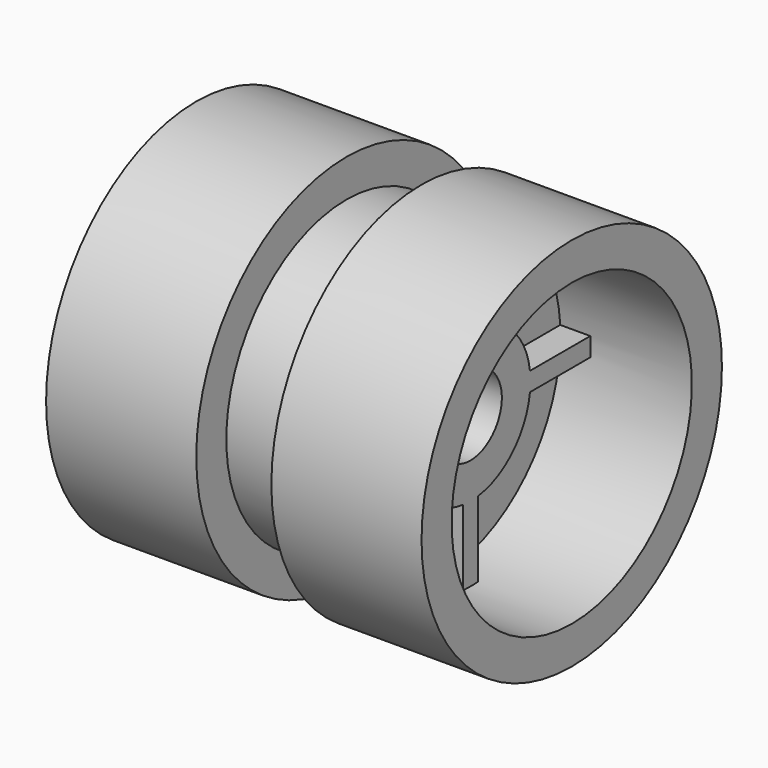
from build123d import *

# Parameters (mm, degrees)
F3_DEPTH = 20.32
F4_R     = 26.5969847408
F5_DEPTH = 254.001
F6_SCALE = 0.0393700787


with BuildPart() as f1:
    # F0 (on Front) → F1 (revolve)
    with BuildSketch(Plane.XZ):
        Polygon((-127, 0), (0, 0), (38.1, 0), (38.1, 50.8), (38.1, 76.2), (38.1, 101.6), (127, 101.6), (127, 127), (25.4, 127), (25.4, 101.6), (0, 101.6), (-25.4, 101.6), (-25.4, 127), (-127, 127), (-127, 101.6), (-38.1, 101.6), (-38.1, 76.2), (-38.1, 50.8), (-127, 50.8), (-127, 25.4), align=None)
    revolve(axis=Axis((-63.5, 0, 0), (-1, 0, 0)))

    # F2 (on face) → F3 (join)
    with BuildSketch(Plane.YZ.offset(38.1)):
        with BuildLine():
            ThreePointArc((50.4015624854, -6.3499999233), (50.7002927716, -3.1812439186), (50.8, 0))
            ThreePointArc((50.8, 0), (50.7002927716, 3.1812439186), (50.4015624854, 6.3499999233))
            ThreePointArc((50.4015624854, 6.3499999233), (35.9210244843, 35.9210244843), (6.3499999233, 50.4015624854))
            ThreePointArc((6.3499999233, 50.4015624854), (0, 50.8), (-6.3499999233, 50.4015624854))
            ThreePointArc((-6.3499999233, 50.4015624854), (-35.9210244843, 35.9210244843), (-50.4015624854, 6.3499999233))
            ThreePointArc((-50.4015624854, 6.3499999233), (-50.8, 0), (-50.4015624854, -6.3499999233))
            ThreePointArc((-50.4015624854, -6.3499999233), (-35.9210244843, -35.9210244843), (-6.3499999233, -50.4015624854))
            ThreePointArc((-6.3499999233, -50.4015624854), (0, -50.8), (6.3499999233, -50.4015624854))
            ThreePointArc((6.3499999233, -50.4015624854), (35.9210244843, -35.9210244843), (50.4015624854, -6.3499999233))
        make_face()
        with BuildLine():
            ThreePointArc((50.4015624854, 6.3499999233), (50.7002927716, 3.1812439186), (50.8, 0))
            ThreePointArc((50.8, 0), (50.7002927716, -3.1812439186), (50.4015624854, -6.3499999233))
            Line((50.4015624854, -6.3499999233), (101.4013683388, -6.3499999233))
            ThreePointArc((101.4013683388, -6.3499999233), (101.6, 0), (101.4013683388, 6.3499999233))
            Line((101.4013683388, 6.3499999233), (50.4015624854, 6.3499999233))
        make_face()
        with BuildLine():
            ThreePointArc((-6.3499999233, 50.4015624854), (0, 50.8), (6.3499999233, 50.4015624854))
            Line((6.3499999233, 50.4015624854), (6.3499999233, 101.4013683388))
            ThreePointArc((6.3499999233, 101.4013683388), (0, 101.6), (-6.3499999233, 101.4013683388))
            Line((-6.3499999233, 101.4013683388), (-6.3499999233, 50.4015624854))
        make_face()
        with BuildLine():
            Line((6.3499999233, -101.4013683388), (6.3499999233, -50.4015624854))
            ThreePointArc((6.3499999233, -50.4015624854), (0, -50.8), (-6.3499999233, -50.4015624854))
            Line((-6.3499999233, -50.4015624854), (-6.3499999233, -101.4013683388))
            ThreePointArc((-6.3499999233, -101.4013683388), (0, -101.6), (6.3499999233, -101.4013683388))
        make_face()
        with BuildLine():
            ThreePointArc((-50.4015624854, -6.3499999233), (-50.8, 0), (-50.4015624854, 6.3499999233))
            Line((-50.4015624854, 6.3499999233), (-101.4013683388, 6.3499999233))
            ThreePointArc((-101.4013683388, 6.3499999233), (-101.6, 0), (-101.4013683388, -6.3499999233))
            Line((-101.4013683388, -6.3499999233), (-50.4015624854, -6.3499999233))
        make_face()
    extrude(amount=F3_DEPTH)

    # F4 (on face) → F5 (cut, through all)
    with BuildSketch(Plane(origin=(-127, 0, 0), x_dir=(0, -1, 0), z_dir=(-1, 0, 0))):
        Circle(F4_R)
    extrude(amount=-F5_DEPTH, mode=Mode.SUBTRACT)


with BuildPart() as f1_1:
    # F6: moved
    add(f1.part.scale(F6_SCALE))


solid = f1_1.part
